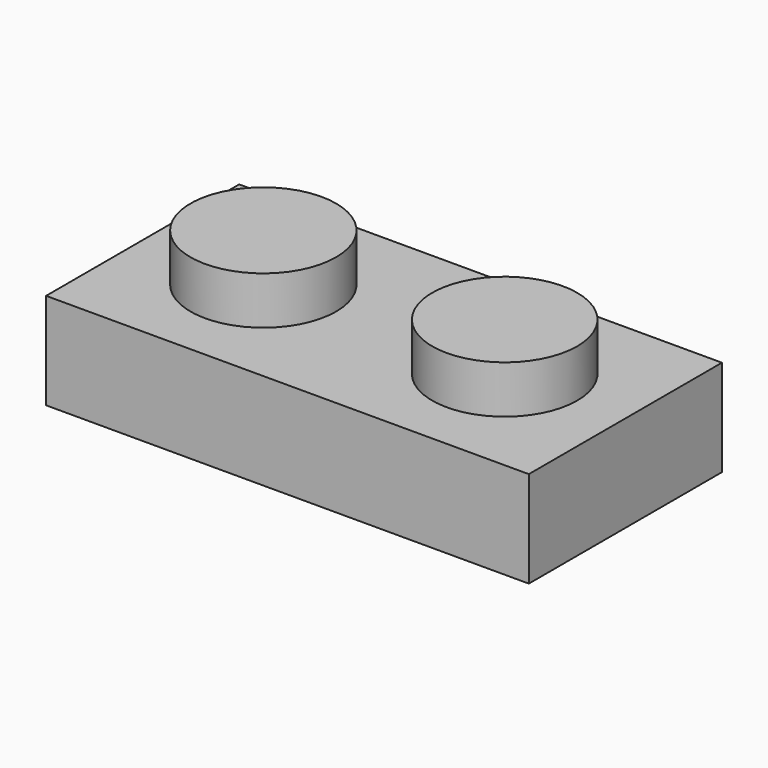
from build123d import *

# Parameters (mm, degrees)
F0_R     = 2.3876
F0_R_2   = 2.39776
F1_DEPTH = 4.7498
F0_W     = 15.9004
F0_H     = 7.9502
F2_DEPTH = 3.175


with BuildPart() as f1:
    # F0 (on Top) → F1 (new body)
    with BuildSketch(Plane.XY):
        with Locations((-9.661722, -10.060197)):
            Circle(F0_R)
        with Locations((-17.611922, -10.060197)):
            Circle(F0_R_2)
    extrude(amount=F1_DEPTH)


with BuildPart() as f2:
    # F0 (on Top) → F2 (new body)
    with BuildSketch(Plane.XY):
        with Locations((-13.636822, -10.060197)):
            Rectangle(F0_W, F0_H)
        with Locations((-17.611922, -10.060197)):
            Circle(F0_R_2, mode=Mode.SUBTRACT)
        with Locations((-9.661722, -10.060197)):
            Circle(F0_R, mode=Mode.SUBTRACT)
    extrude(amount=F2_DEPTH)


solid = Compound([f1.part, f2.part])
